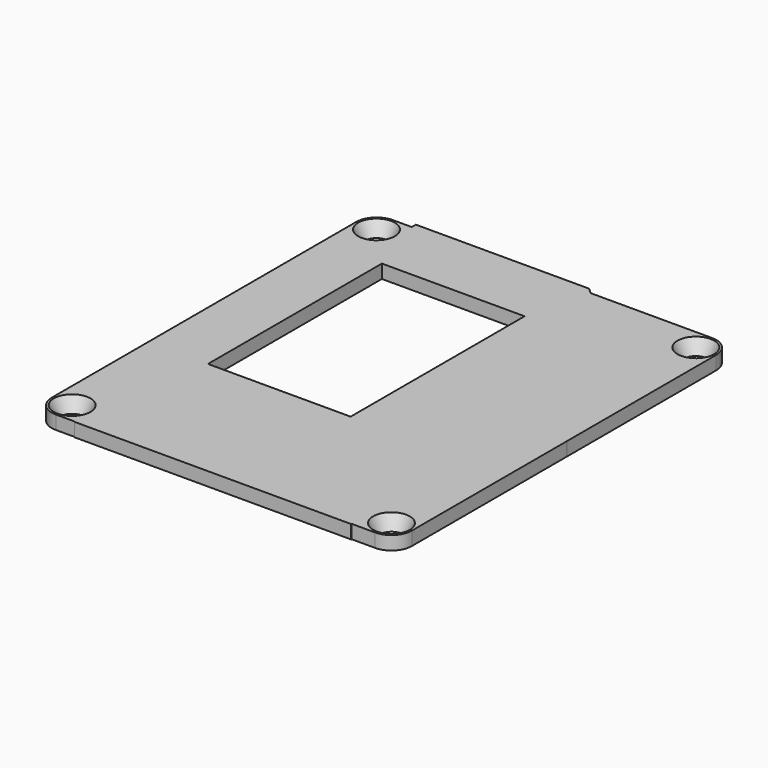
from build123d import *

# Parameters (mm, degrees)
CYLINDER003_R     = 3.4
CYLINDER003_DEPTH = 10
CYLINDER004_R     = 1.7
CYLINDER004_DEPTH = 9.6
CYLINDER002_R     = 3.4
CYLINDER002_DEPTH = 10
CYLINDER001_R     = 1.7
CYLINDER001_DEPTH = 9.6
CYLINDER008_R     = 3.4
CYLINDER008_DEPTH = 10
CYLINDER006_R     = 1.7
CYLINDER006_DEPTH = 9.6
CYLINDER005_R     = 3.4
CYLINDER005_DEPTH = 10
CYLINDER007_R     = 1.7
CYLINDER007_DEPTH = 9.6
PAD002_DEPTH      = 2
BOX001_W          = 53
BOX001_H          = 62
BOX001_DEPTH      = 2
FILLET_R          = 3
SKETCH001_W       = 21
SKETCH001_H       = 32
PAD001_DEPTH      = 2


with BuildPart() as grab_screw_head001:
    # Cone002 → Cone002 (revolve)
    with BuildSketch(Plane.XZ):
        Polygon((0, 0), (1.7, 0), (3.4, 3.4), (0, 3.4), align=None)
    revolve(axis=Axis((0, 0, 0), (0, 0, 1)))


with BuildPart() as grab_screw_head_extension001:
    # Cylinder003 → Cylinder003 (new body)
    with BuildSketch(Plane.XY.offset(3.4)):
        Circle(CYLINDER003_R)
    extrude(amount=CYLINDER003_DEPTH)


with BuildPart() as grab_screw001:
    # Cylinder004 → Cylinder004 (new body)
    with BuildSketch(Plane.XY.offset(-9.6)):
        Circle(CYLINDER004_R)
    extrude(amount=CYLINDER004_DEPTH)

    # Fusion002: union grab-screw-head001, grab-screw-head-extension001
    add(grab_screw_head001.part)
    add(grab_screw_head_extension001.part)


with BuildPart() as grab_screw001_1:
    # Fusion002 placement: moved
    add(grab_screw001.part.moved(Location((42, 56, 5))))


with BuildPart() as grab_screw_head:
    # Cone001 → Cone001 (revolve)
    with BuildSketch(Plane.XZ):
        Polygon((0, 0), (1.7, 0), (3.4, 3.4), (0, 3.4), align=None)
    revolve(axis=Axis((0, 0, 0), (0, 0, 1)))


with BuildPart() as grab_screw_head_extension:
    # Cylinder002 → Cylinder002 (new body)
    with BuildSketch(Plane.XY.offset(3.4)):
        Circle(CYLINDER002_R)
    extrude(amount=CYLINDER002_DEPTH)


with BuildPart() as right_screws:
    # Cylinder001 → Cylinder001 (new body)
    with BuildSketch(Plane.XY.offset(-9.6)):
        Circle(CYLINDER001_R)
    extrude(amount=CYLINDER001_DEPTH)

    # Fusion001: union grab-screw-head, grab-screw-head-extension
    add(grab_screw_head.part)
    add(grab_screw_head_extension.part)


with BuildPart() as right_screws_1:
    # Fusion001 placement: moved
    add(right_screws.part.moved(Location((42, 0, 5))))

    # Fusion: union grab-screw001
    add(grab_screw001_1.part)


with BuildPart() as grab_screw_head003:
    # Cone004 → Cone004 (revolve)
    with BuildSketch(Plane.XZ):
        Polygon((0, 0), (1.7, 0), (3.4, 3.4), (0, 3.4), align=None)
    revolve(axis=Axis((0, 0, 0), (0, 0, 1)))


with BuildPart() as grab_screw_head_extension003:
    # Cylinder008 → Cylinder008 (new body)
    with BuildSketch(Plane.XY.offset(3.4)):
        Circle(CYLINDER008_R)
    extrude(amount=CYLINDER008_DEPTH)


with BuildPart() as grab_screw002:
    # Cylinder006 → Cylinder006 (new body)
    with BuildSketch(Plane.XY.offset(-9.6)):
        Circle(CYLINDER006_R)
    extrude(amount=CYLINDER006_DEPTH)

    # Fusion004: union grab-screw-head003, grab-screw-head-extension003
    add(grab_screw_head003.part)
    add(grab_screw_head_extension003.part)


with BuildPart() as grab_screw002_1:
    # Fusion004 placement: moved
    add(grab_screw002.part.moved(Location((42, 56, 5))))


with BuildPart() as grab_screw_head002:
    # Cone003 → Cone003 (revolve)
    with BuildSketch(Plane.XZ):
        Polygon((0, 0), (1.7, 0), (3.4, 3.4), (0, 3.4), align=None)
    revolve(axis=Axis((0, 0, 0), (0, 0, 1)))


with BuildPart() as grab_screw_head_extension002:
    # Cylinder005 → Cylinder005 (new body)
    with BuildSketch(Plane.XY.offset(3.4)):
        Circle(CYLINDER005_R)
    extrude(amount=CYLINDER005_DEPTH)


with BuildPart() as all_screws:
    # Cylinder007 → Cylinder007 (new body)
    with BuildSketch(Plane.XY.offset(-9.6)):
        Circle(CYLINDER007_R)
    extrude(amount=CYLINDER007_DEPTH)

    # Fusion005: union grab-screw-head002, grab-screw-head-extension002
    add(grab_screw_head002.part)
    add(grab_screw_head_extension002.part)


with BuildPart() as all_screws_1:
    # Fusion005 placement: moved
    add(all_screws.part.moved(Location((42, 0, 5))))

    # Fusion003: union grab-screw002
    add(grab_screw002_1.part)


with BuildPart() as all_screws_2:
    # Fusion003 placement: moved
    add(all_screws_1.part.moved(Location((-47, 0, 0))))

    # Fusion006: union right-screws
    add(right_screws_1.part)


with BuildPart() as all_screws_3:
    # Fusion006 placement: moved
    add(all_screws_2.part.moved(Location((0, 0, 12))))


with BuildPart() as compound:
    # Sketch002 → Pad002 (new body)
    with BuildSketch(Plane.XY):
        Polygon((-2.215162, 59.759811), (-2.215162, -3.075415), (38.48941, -3.075415), (45.010048, 28.539799), (36.908657, 47.508923), (23.274607, 59.759811), align=None)
    extrude(amount=PAD002_DEPTH)


with BuildPart() as compound_1:
    # Compound placement: moved
    add(compound.part.moved(Location((0, 0, 20))))


with BuildPart() as fillet_body:
    # Box001 → Box001 (new body)
    with BuildSketch(Plane(origin=(-8, -3, 20), x_dir=(1, 0, 0), z_dir=(0, 0, 1))):
        with Locations((26.5, 31)):
            Rectangle(BOX001_W, BOX001_H)
    extrude(amount=BOX001_DEPTH)

    # Cut: cut Compound
    add(compound_1.part, mode=Mode.SUBTRACT)


with BuildPart() as fillet_body_1:
    # Cut placement: moved
    add(fillet_body.part.moved(Location((0, 0, -22))))

    # Fillet
    fillet_edges = [fillet_body_1.edges().sort_by_distance(p)[0] for p in [
        (-8, -3, -1),
        (-8, 59, -1),
        (45, -3, -1),
        (45, 59, -1),
    ]]
    fillet(fillet_edges, radius=FILLET_R)


with BuildPart() as top_flat:
    # Sketch001 → Pad001 (new body)
    with BuildSketch(Plane.XY):
        Polygon((-2.22, 59.76), (-2.22, -3.08), (38.49, -3.08), (45.010048, 28.539799), (36.908657, 47.508923), (23.274607, 59.76), align=None)
        with Locations((11.28, 33.76)):
            Rectangle(SKETCH001_W, SKETCH001_H, mode=Mode.SUBTRACT)
    extrude(amount=PAD001_DEPTH)


with BuildPart() as top_flat_1:
    # Body001 placement: moved
    add(top_flat.part.moved(Location((0, 0, -2))))

    # Fusion010: union Fillet body
    add(fillet_body_1.part)


with BuildPart() as top_flat_2:
    # Fusion010 placement: moved
    add(top_flat_1.part.moved(Location((0, 0, 19))))

    # Cut001: cut all-screws
    add(all_screws_3.part, mode=Mode.SUBTRACT)


solid = top_flat_2.part
